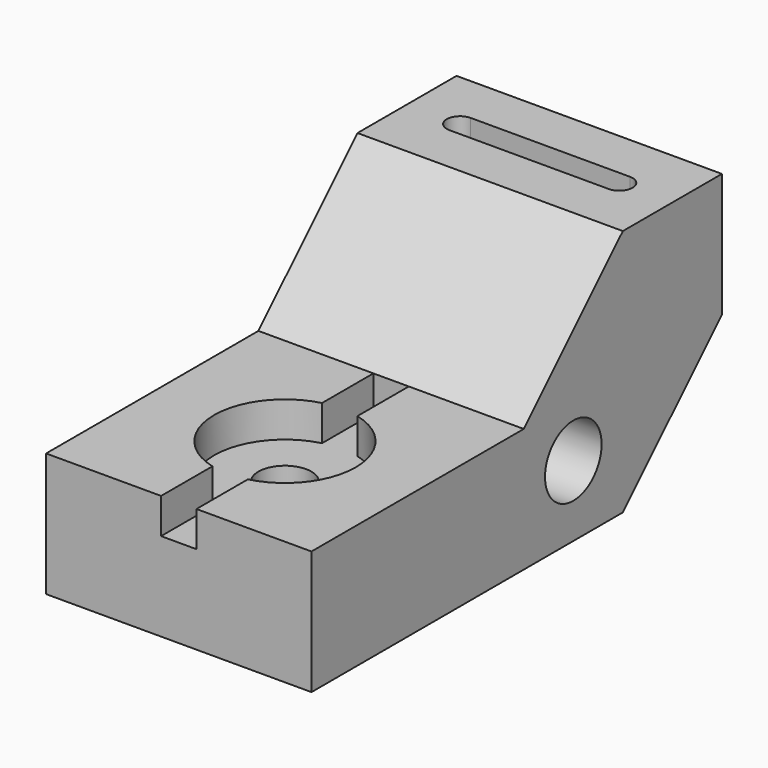
from build123d import *

# Parameters (mm, degrees)
F0_W           = 147.32
F0_H           = 71.12
F1_DEPTH       = 38.1
F3_DEPTH       = 76.201
F4_R           = 10.16
F5_DEPTH       = 76.201
F6_W           = 10.16
F6_H           = 76.2
F7_DEPTH       = 10.16
F8_D           = 15.24
F8_CBORE_D     = 40.64
F8_CBORE_DEPTH = 10.16
F10_DEPTH      = 27.94


with BuildPart() as f1:
    # F0 (on Right) → F1 (new body, symmetric)
    with BuildSketch(Plane.YZ):
        with Locations((0, 35.56)):
            Rectangle(F0_W, F0_H)
    extrude(amount=F1_DEPTH, both=True)

    # F2 (on face) → F3 (cut, through all)
    with BuildSketch(Plane.YZ.offset(38.1)):
        Polygon((2.54, 35.56), (38.1, 71.12), (-73.66, 71.12), (-73.66, 35.56), align=None)
        Polygon((73.66, 35.56), (38.1, 0), (73.66, 0), align=None)
    extrude(amount=-F3_DEPTH, mode=Mode.SUBTRACT)

    # F4 (on face) → F5 (cut, through all)
    with BuildSketch(Plane.YZ.offset(38.1)):
        with Locations((20.32, 20.32)):
            Circle(F4_R)
    extrude(amount=-F5_DEPTH, mode=Mode.SUBTRACT)

    # F6 (on face) → F7 (cut)
    with BuildSketch(Plane.XY.offset(35.56)):
        with Locations((0, -35.56)):
            Rectangle(F6_W, F6_H)
    extrude(amount=-F7_DEPTH, mode=Mode.SUBTRACT)

    # F8 (through all)
    with Locations(Plane.XY.offset(35.56)):
        with Locations((0, -35.56)):
            CounterBoreHole(F8_D / 2, F8_CBORE_D / 2, F8_CBORE_DEPTH)

    # F9 (on face) → F10 (cut)
    with BuildSketch(Plane.XY.offset(71.12)):
        with BuildLine():
            Line((22.86, 59.69), (-22.86, 59.69))
            ThreePointArc((-22.86, 59.69), (-26.67, 55.88), (-22.86, 52.07))
            Line((-22.86, 52.07), (22.86, 52.07))
            ThreePointArc((22.86, 52.07), (26.67, 55.88), (22.86, 59.69))
        make_face()
    extrude(amount=-F10_DEPTH, mode=Mode.SUBTRACT)


solid = f1.part
